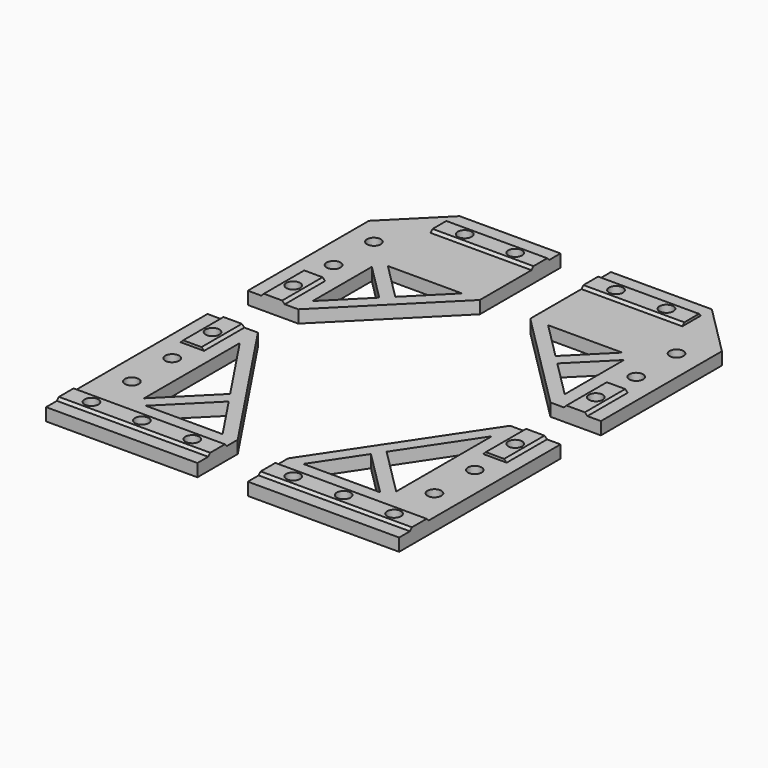
from build123d import *

# Parameters (mm, degrees)
F1_DEPTH  = 5
F3_DEPTH  = 5.001
F5_DEPTH  = 20
F7_DEPTH  = 40
F9_DEPTH  = 20
F11_DEPTH = 60
F13_DEPTH = 25
F15_DEPTH = 60
F17_DEPTH = 20
F19_DEPTH = 20
F21_DEPTH = 40
F22_D     = 5.5
F22_2_D   = 5.5
F22_3_D   = 5.5
F22_4_D   = 5.5
F24_DEPTH = 5.001
F26_DEPTH = 5.001


with BuildPart() as f1:
    # F0 (on Top) → F1 (new body)
    with BuildSketch(Plane.XY):
        Polygon((-20, -60), (0, -60), (0, 0), (-20, 20), (-60, 20), (-60, 0), (-60, -20), align=None)
    extrude(amount=F1_DEPTH)

    # F2 (on face) → F3 (cut, through all)
    with BuildSketch(Plane.XY.offset(5)):
        Polygon((-38.232233047, -34.6966991411), (-23.5355339059, -20), (-52.9289321881, -20), align=None)
        Polygon((-20, -52.9289321881), (-20, -23.5355339059), (-34.6966991411, -38.232233047), align=None)
    extrude(amount=-F3_DEPTH, mode=Mode.SUBTRACT)

    # F4 (on face) → F5 (join)
    with BuildSketch(Plane.XZ.offset(60)):
        Polygon((-13.64, 6), (-14.64, 5), (-5.36, 5), (-6.36, 6), align=None)
    extrude(amount=-F5_DEPTH)

    # F6 (on face) → F7 (join)
    with BuildSketch(Plane(origin=(-60, 0, 0), x_dir=(0, -1, 0), z_dir=(-1, 0, 0))):
        Polygon((-13.64, 6), (-14.64, 5), (-5.36, 5), (-6.36, 6), align=None)
    extrude(amount=-F7_DEPTH)

    # F22 (through all)
    with Locations(Plane(origin=(0, 0, 0), x_dir=(1, 0, 0), z_dir=(0, 0, -1))):
        with Locations((-110, -10), (-90, -10), (-50, -10), (-30, -10), (-130, 10), (-10, 10), (-10, 30), (-10, 50), (-130, 50), (-130, 30), (-130, 130), (-130, 110), (-130, 90), (-10, 130), (-10, 110), (-10, 90), (-130, 150), (-110, 150), (-90, 150), (-50, 150), (-30, 150), (-10, 150)):
            Hole(F22_D / 2)


with BuildPart() as f1b:
    # F0 (on Top) → F1, piece 2 (new body)
    with BuildSketch(Plane.XY):
        Polygon((0, -160), (0, -80), (-20, -80), (-60, -140), (-60, -160), align=None)
    extrude(amount=F1_DEPTH)

    # F8 (on face) → F9 (join)
    with BuildSketch(Plane(origin=(0, -80, 0), x_dir=(-1, 0, 0), z_dir=(0, 1, 0))):
        Polygon((6.36, 6), (5.36, 5), (14.64, 5), (13.64, 6), align=None)
    extrude(amount=-F9_DEPTH)

    # F10 (on face) → F11 (join, through all)
    with BuildSketch(Plane.YZ):
        Polygon((-153.64, 6), (-154.64, 5), (-145.36, 5), (-146.36, 6), align=None)
    extrude(amount=-F11_DEPTH)

    # F12 (on face) → F13 (cut)
    with BuildSketch(Plane.XY.offset(5)):
        Polygon((-38.9802351622, -117.4842309319), (-20, -136.4644660941), (-20, -89.0138781887), align=None)
        Polygon((-41.8086622869, -121.726871619), (-53.9907478742, -140), (-23.5355339059, -140), align=None)
    extrude(amount=-F13_DEPTH, mode=Mode.SUBTRACT)

    # F22#2 (through all)
    with Locations(Plane(origin=(0, 0, 0), x_dir=(1, 0, 0), z_dir=(0, 0, -1))):
        with Locations((-110, -10), (-90, -10), (-50, -10), (-30, -10), (-130, 10), (-10, 10), (-10, 30), (-10, 50), (-130, 50), (-130, 30), (-130, 130), (-130, 110), (-130, 90), (-10, 130), (-10, 110), (-10, 90), (-130, 150), (-110, 150), (-90, 150), (-50, 150), (-30, 150), (-10, 150)):
            Hole(F22_2_D / 2)


with BuildPart() as f1c:
    # F0 (on Top) → F1, piece 3 (new body)
    with BuildSketch(Plane.XY):
        Polygon((-140, -60), (-120, -60), (-80, -20), (-80, 0), (-80, 20), (-120, 20), (-140, 0), align=None)
    extrude(amount=F1_DEPTH)

    # F18 (on face) → F19 (join)
    with BuildSketch(Plane.XZ.offset(60)):
        Polygon((-133.64, 6), (-134.64, 5), (-125.36, 5), (-126.36, 6), align=None)
    extrude(amount=-F19_DEPTH)

    # F20 (on face) → F21 (join)
    with BuildSketch(Plane.YZ.offset(-80)):
        Polygon((6.6012964097, 6), (5.6012964097, 5), (14.3987035903, 5), (13.3987035903, 6), align=None)
    extrude(amount=-F21_DEPTH)

    # F22#3 (through all)
    with Locations(Plane(origin=(0, 0, 0), x_dir=(1, 0, 0), z_dir=(0, 0, -1))):
        with Locations((-110, -10), (-90, -10), (-50, -10), (-30, -10), (-130, 10), (-10, 10), (-10, 30), (-10, 50), (-130, 50), (-130, 30), (-130, 130), (-130, 110), (-130, 90), (-10, 130), (-10, 110), (-10, 90), (-130, 150), (-110, 150), (-90, 150), (-50, 150), (-30, 150), (-10, 150)):
            Hole(F22_3_D / 2)

    # F23 (on face) → F24 (cut, through all)
    with BuildSketch(Plane.XY.offset(5)):
        Polygon((-120, -23.5355339059), (-120, -52.9289321881), (-105.3033008589, -38.232233047), align=None)
        Polygon((-116.4644660941, -20), (-101.767766953, -34.6966991411), (-87.0710678119, -20), align=None)
    extrude(amount=-F24_DEPTH, mode=Mode.SUBTRACT)


with BuildPart() as f1d:
    # F0 (on Top) → F1, piece 4 (new body)
    with BuildSketch(Plane.XY):
        Polygon((-140, -160), (-80, -160), (-80, -140), (-120, -80), (-140, -80), align=None)
    extrude(amount=F1_DEPTH)

    # F14 (on face) → F15 (join, through all)
    with BuildSketch(Plane(origin=(-140, 0, 0), x_dir=(0, -1, 0), z_dir=(-1, 0, 0))):
        Polygon((146.36, 6), (145.36, 5), (154.64, 5), (153.64, 6), align=None)
    extrude(amount=-F15_DEPTH)

    # F16 (on face) → F17 (join)
    with BuildSketch(Plane(origin=(0, -80, 0), x_dir=(-1, 0, 0), z_dir=(0, 1, 0))):
        Polygon((125.36, 5), (134.64, 5), (133.64, 6), (126.36, 6), align=None)
    extrude(amount=-F17_DEPTH)

    # F22#4 (through all)
    with Locations(Plane(origin=(0, 0, 0), x_dir=(1, 0, 0), z_dir=(0, 0, -1))):
        with Locations((-110, -10), (-90, -10), (-50, -10), (-30, -10), (-130, 10), (-10, 10), (-10, 30), (-10, 50), (-130, 50), (-130, 30), (-130, 130), (-130, 110), (-130, 90), (-10, 130), (-10, 110), (-10, 90), (-130, 150), (-110, 150), (-90, 150), (-50, 150), (-30, 150), (-10, 150)):
            Hole(F22_4_D / 2)

    # F25 (on face) → F26 (cut, through all)
    with BuildSketch(Plane.XY.offset(5)):
        Polygon((-120, -89.0138781887), (-120, -136.4644660941), (-101.0197648378, -117.4842309319), align=None)
        Polygon((-116.4644660941, -140), (-86.0092521258, -140), (-98.1913377131, -121.726871619), align=None)
    extrude(amount=-F26_DEPTH, mode=Mode.SUBTRACT)


solid = Compound([f1.part, f1b.part, f1c.part, f1d.part])
